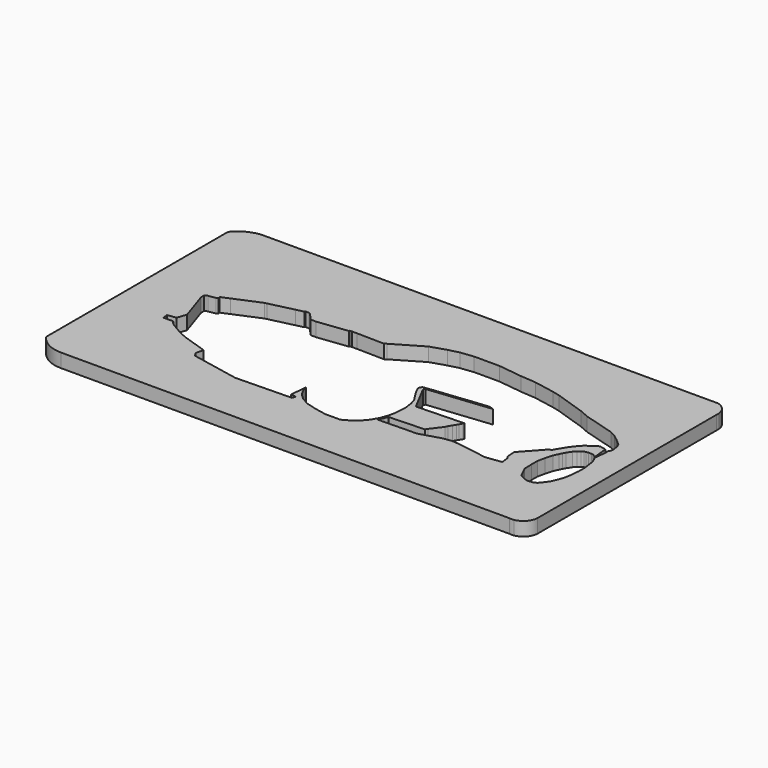
from build123d import *

# Parameters (mm, degrees)
F1_DEPTH = 4.2


with BuildPart() as f1:
    # F0 (on Top) → F1 (new body)
    with BuildSketch(Plane.XY):
        Polygon((44.977145, 13.610775), (45.516159, 13.644656), (45.344504, 16.375538), (51.013049, 22.670256), (51.555938, 22.70438), (53.552333, 26.023373), (54.561116, 27.47602), (56.310112, 29.418218), (57.680983, 30.326347), (59.450857, 31.498795), (61.434174, 31.054259), (61.88897, 26.504397), (62.159402, 26.260867), (62.557496, 29.507004), (62.557496, 30.694598), (61.881211, 32.501031), (61.395429, 33.288345), (60.581864, 33.852523), (58.823997, 34.246527), (57.448892, 34.04703), (55.717587, 32.900132), (52.769196, 30.140775), (49.275246, 26.260867), (47.123693, 23.241876), (49.906887, 22.618057), (44.700395, 16.763752), (44.700395, 14.028545), align=None)
        Polygon((42.325083, 23.241876), (47.123693, 23.241876), (49.275246, 26.260867), (52.769196, 30.140775), (55.717587, 32.900132), (57.448892, 34.04703), (58.823997, 34.246527), (60.581864, 33.852523), (61.395429, 33.288345), (61.881211, 32.501031), (62.557496, 30.694598), (62.758337, 30.917625), (62.883106, 31.474288), (63.057776, 32.253583), (62.883106, 32.900132), (62.744935, 33.852523), (62.404808, 34.817252), (60.482778, 36.548087), (57.704408, 36.883015), (56.06227, 36.644777), (53.853523, 35.631876), (49.632758, 33.214994), (47.778636, 32.603957), (44.925898, 31.935215), (43.073435, 31.666464), (39.447628, 31.666464), (35.794899, 32.261252), (35.019862, 32.148812), (35.431139, 31.778447), (34.337938, 31.054259), (36.339141, 29.928997), (37.889393, 28.532959), (39.874225, 26.74557), align=None)
        Polygon((38.198277, 18.227329), (43.884631, 21.994237), (42.325083, 23.241876), (39.874225, 26.74557), (37.889393, 28.532959), (36.339141, 29.928997), (34.337938, 31.054259), (28.266452, 32.2455), (21.881952, 32.981146), (14.915363, 33.783861), (8.835521, 34.216473), (10.486052, 32.839466), (12.534714, 33.194158), (12.813605, 32.915267), (12.903254, 32.825619), (12.903254, 31.096321), (13.104901, 30.737627), (14.299012, 30.944368), (14.494383, 31.040402), (14.865994, 31.079026), (15.057351, 30.696312), (15.325704, 30.540392), (15.325704, 30.171853), (15.707208, 29.890334), (20.77497, 30.462589), (26.125677, 31.018725), (27.562566, 30.589263), (27.923392, 30.027352), (26.834997, 20.581419), (26.603129, 20.195939), (34.235068, 21.159452), (34.577172, 21.209083), (37.154589, 22.86415), (36.107592, 23.959819), (36.027364, 24.080927), (34.284126, 26.172387), (33.313468, 27.637649), (32.147654, 29.028247), (31.772899, 29.661847), (32.311803, 30.018842), (33.279754, 30.199839), (35.943083, 29.677287), (38.050145, 28.075919), (39.535917, 26.322745), (41.945595, 22.935022), (36.9968, 18.717939), (28.431773, 17.575085), (28.109628, 17.528349), (27.354047, 17.418731), (24.830012, 16.946764), (24.306303, 16.211912), align=None)
        Polygon((62.159402, 26.260867), (61.88897, 26.504397), (60.83139, 27.137697), (60.247339, 27.221132), (59.389148, 27.233051), (58.697827, 27.137697), (58.185294, 26.982745), (57.493974, 26.649004), (56.790732, 25.981519), (56.063648, 25.25444), (55.169698, 23.859875), (54.752521, 23.085119), (54.347262, 22.250764), (53.654872, 20.791596), (53.035066, 18.503079), (52.534454, 16.293667), (52.534454, 14.007394), (52.61768, 11.241064), (54.266289, 7.92863), (55.744287, 7.165792), (57.126932, 6.784372), (58.81948, 6.975082), (59.677672, 7.499534), (60.964961, 9.120565), (61.560929, 10.026435), (62.347606, 11.814337), (62.895894, 13.387692), (63.232788, 15.17124), (63.301153, 15.533174), (63.563377, 18.346142), (63.563377, 20.443946), (63.086607, 24.115106), align=None)
        Polygon((55.83401, 10.960189), (54.41355, 12.557245), (54.198583, 14.599453), (54.127488, 15.274856), (54.699618, 18.898338), (55.55781, 21.234531), (56.129938, 22.188079), (56.702066, 23.141626), (57.60599, 24.196205), (58.132388, 24.810337), (58.470652, 24.911815), (59.562709, 25.239432), (61.136063, 24.858013), (62.184967, 23.141626), (62.85245, 21.139177), (62.85245, 18.183177), (62.666345, 16.787389), (62.471032, 15.322533), (61.422128, 12.175826), (61.221022, 11.791896), (60.373228, 10.173375), (58.609162, 8.361634), (57.991932, 8.155891), (57.17884, 7.884861), (55.89084, 8.584061), (56.689955, 10.056115), (56.179669, 13.285544), (55.762492, 13.916187), align=None, mode=Mode.SUBTRACT)
        Polygon((35.186818, 20.581419), (35.786986, 19.963511), (36.323965, 19.410661), (36.9968, 18.717939), (41.945595, 22.935022), (39.535917, 26.322745), (38.050145, 28.075919), (35.943083, 29.677287), (33.279754, 30.199839), (32.311803, 30.018842), (31.772899, 29.661847), (32.147654, 29.028247), (33.313468, 27.637649), (34.284126, 26.172387), (36.027364, 24.080927), (36.107592, 23.959819), (37.154589, 22.86415), (34.577172, 21.209083), align=None)
        Polygon((12.534714, 33.194158), (10.486052, 32.839466), (4.454993, 31.795287), (7.431868, 29.437896), (6.794012, 29.01266), (6.326251, 28.346453), (6.326251, 27.836168), (6.567219, 27.311711), (7.105852, 26.461236), (7.658978, 25.987316), (6.9219, 27.489822), (6.798545, 27.977122), (6.958682, 28.499672), (7.363238, 28.921086), (10.355268, 29.33407), (15.707208, 29.890334), (15.325704, 30.171853), (15.325704, 30.540392), (15.057351, 30.696312), (14.865994, 31.079026), (14.494383, 31.040402), (14.299012, 30.944368), (13.104901, 30.737627), (12.903254, 31.096321), (7.38122, 31.292453), (12.813605, 32.915267), align=None)
        Polygon((-9.931885, 38.161553), (5.28262, 35.433484), (11.767071, 35.433484), (18.814161, 34.673997), (26.444461, 34.266633), (41.41346, 32.331388), (44.280894, 32.331388), (46.710923, 32.909475), (53.853523, 35.631876), (56.06227, 36.644777), (57.704408, 36.883015), (60.482778, 36.548087), (58.664064, 37.956048), (56.846585, 38.889412), (49.476422, 40.797822), (44.198189, 41.874513), (47.435194, 41.624032), (44.567756, 42.884013), (35.366179, 45.934509), (33.025108, 46.508394), (26.837271, 47.666323), (22.017064, 48.039313), (14.82417, 48.938427), (7.072369, 48.938427), (3.062817, 48.452422), (0, 47.674809), (-4.673017, 46.194144), (-1.305311, 45.933548), (3.245104, 45.231942), (10.220604, 43.92546), (4.012142, 37.745345), (3.682273, 37.779178), (-3.124806, 37.970366), align=None)
        Polygon((40.085532, 41.279063), (39.751749, 41.143462), (38.50913, 40.189825), (37.353206, 39.496269), (36.226179, 38.889412), (34.23221, 38.109161), (32.845102, 37.704587), (31.400196, 37.473403), (24.609141, 37.473403), (21.199163, 37.473403), (18.020371, 37.473403), (14.783784, 37.473403), (12.154056, 37.473403), (8.88857, 37.415605), (6.316638, 37.415605), (6.923498, 38.484838), (11.980667, 43.570902), (12.632327, 44.385608), (19.235546, 44.689041), (28.435868, 44.554212), (34.349255, 44.09663), (38.145048, 43.586629), (39.247487, 43.316379), (40.938023, 42.57948), (42.209543, 41.842576), (41.458189, 41.842576), align=None, mode=Mode.SUBTRACT)
        Polygon((42.542173, 35.567098), (37.679449, 35.709467), (42.83659, 39.66727), (45.969738, 39.174924), (48.150736, 38.832201), (51.28214, 38.34013), (49.045165, 36.997942), (48.731925, 36.809998), (44.763177, 35.502073), align=None, mode=Mode.SUBTRACT)
        Polygon((7.534076, 48.185118), (16.475747, 47.941234), (11.519327, 46.702798), (4.569437, 47.480408), align=None, mode=Mode.SUBTRACT)
        Polygon((1.160444, 33.055801), (-1.02244, 33.821229), (-2.711725, 34.12413), (-5.778347, 34.673997), (-8.52002, 34.955192), (-11.114994, 34.997586), (-15.051646, 34.560181), (-21.709934, 33.588167), (-30.117841, 31.546939), (-36.655456, 30.187771), (-22.982877, 34.104329), (-15.351649, 35.514958), (-3.053562, 35.986401), (-2.464082, 34.955192), (0, 34.317177), (-3.015257, 36.293235), (-13.658796, 38.164359), (-20.171281, 37.411049), (-24.198058, 36.723815), (-28.75216, 35.433484), (-32.148391, 34.669336), (-36.117475, 35.791904), (-33.952523, 36.814243), (-32.037947, 37.394008), (-31.106008, 37.676215), (-29.201649, 38.217455), (-26.796144, 38.758691), (-24.423273, 39.25984), (-22.446189, 39.600618), (-22.446189, 39.9414), (-24.423273, 40.591948), (-33.669934, 39.486233), (-35.909519, 39.259437), (-41.531112, 38.079731), (-46.617176, 36.923807), (-49.502917, 35.885005), (-54.892544, 34.333486), (-57.796761, 32.977048), (-58.476165, 32.142695), (-54.327402, 28.764409), (-42.502067, 26.753125), (-39.289646, 27.146205), (-28.117094, 25.5126), (-20.957465, 26.095128), (-10.870717, 26.915815), (0.168223, 32.049406), (0.706857, 32.247849), (0.295794, 30.830393), (-0.129443, 30.830393), (-2.397375, 30.022442), (-4.084149, 29.427109), (-5.068837, 28.976489), (-6.756744, 27.85122), (-7.882531, 26.725434), (-9.983162, 23.953656), (-11.70057, 21.060836), (-14.226351, 16.12955), (-16.247297, 11.498441), (-16.247297, 11.037897), (-14.316479, 11.372187), (-9.723914, 21.94123), (-6.734794, 26.308704), (-5.827622, 27.187526), (-4.916987, 27.920763), (-3.651651, 28.580354), (-1.844566, 29.299539), (1.089571, 30.164188), (1.089571, 31.028837), (1.231316, 31.609993), (2.749433, 31.923271), (2.42198, 32.673087), (2.081278, 32.524298), (1.851219, 32.754357), (1.557332, 32.882605), align=None)
        Polygon((-13.645695, 30.426417), (-25.92719, 26.659414), (-33.062071, 27.802369), (-25.86158, 29.427109), (-22.717309, 28.980681), (-17.221577, 30.801756), align=None, mode=Mode.SUBTRACT)
        Polygon((4.817484, 27.981304), (5.031539, 29.641165), (2.749433, 31.923271), (2.592075, 31.609993), (1.387237, 31.170582), (1.231316, 31.028837), (1.231316, 30.164188), (3.031488, 30.773694), align=None)
        Polygon((7.105852, 26.461236), (4.817484, 27.981304), (3.031488, 30.773694), (1.231316, 30.164188), (1.231316, 31.028837), (1.387237, 31.170582), (2.592075, 31.609993), (2.749433, 31.923271), (1.231316, 31.609993), (1.089571, 31.028837), (1.089571, 30.164188), (-1.844566, 29.299539), (-3.517166, 28.534111), (-4.849575, 27.839556), (-5.643353, 27.187526), (-6.734794, 26.308704), (-9.723914, 21.94123), (-14.316479, 11.372187), (-13.639488, 9.338418), (-12.618875, 7.734597), (-10.990754, 6.300878), (-8.779425, 5.110163), (-5.579385, 4.233382), (-2.082713, 3.539827), (2.483188, 3.539827), (5.112916, 5.01363), (6.673414, 6.342943), (8.118319, 8.105729), (9.245345, 10.041902), (9.678817, 11.197826), (10.083391, 12.324852), (10.574658, 14.550007), (10.805843, 18.01778), (10.401269, 20.820895), (9.852205, 22.525884), (7.658978, 25.987316), align=None)
        Polygon((-5.479537, 11.851205), (-5.579385, 14.417184), (-5.004245, 17.316848), (-4.138065, 19.447349), (-2.777247, 21.585777), (-0.906123, 23.675604), (1.037902, 24.987821), (2.738924, 25.522428), (5.023154, 25.498128), (8.003553, 23.964137), (9.393068, 21.9616), (10.168338, 19.898338), (10.495721, 15.874604), (10.312073, 14.948714), (10.07656, 13.761333), (9.754067, 12.135433), (9.240509, 10.77526), (8.973205, 10.264953), (8.572251, 9.596694), (7.056702, 7.324063), (6.327692, 6.595054), (4.788216, 5.387898), (3.66119, 4.838834), (2.389674, 4.333117), (0.185332, 4.153765), (-1.395979, 4.737691), (-2.29182, 5.359), (-3.606685, 6.73166), (-4.434624, 8.084657), (-4.880779, 8.813752), (-5.236534, 10.174484), align=None, mode=Mode.SUBTRACT)
        Polygon((-45.817779, 39.352423), (-41.39533, 41.216151), (-48.7098, 39.478458), (-48.7098, 38.961116), (-52.391548, 37.270576), (-52.030321, 36.837105), (-55.974912, 34.713093), (-57.059678, 36.070045), (-59.53614, 35.024025), (-59.53614, 34.804892), (-59.435003, 34.678467), (-59.435003, 34.43405), (-59.904747, 34.136008), (-62.17134, 33.770427), (-62.636197, 33.603553), (-62.963977, 33.335369), (-62.963977, 32.20303), (-59.936277, 23.065884), (-59.122529, 20.610113), (-58.559431, 20.796702), (-59.53015, 24.39303), (-60.33599, 29.567977), (-60.608968, 30.882783), (-60.699562, 31.156181), (-58.940176, 31.156181), (-58.927423, 32.732869), (-59.378681, 33.323044), (-59.010439, 34.553569), (-57.796761, 32.977048), (-54.892544, 34.333486), (-49.501736, 37.631802), align=None)
        Polygon((-16.870601, 11.380275), (-16.247297, 11.498441), (-14.226351, 16.12955), (-11.70057, 21.060836), (-9.983162, 23.953656), (-7.882531, 26.725434), (-6.756744, 27.85122), (-5.068837, 28.976489), (-4.084149, 29.427109), (-2.397375, 30.022442), (-0.129443, 30.830393), (0.168223, 32.049406), (-10.870717, 26.915815), (-20.957465, 26.095128), (-28.117094, 25.5126), (-39.289646, 27.146205), (-39.289646, 25.652647), (-36.063768, 25.053903), (-31.714011, 24.276294), (-27.923163, 23.474382), (-30.134492, 22.648172), (-30.41383, 22.021815), (-30.353196, 20.534044), (-38.177896, 21.092953), (-40.633601, 25.597874), (-42.725973, 25.5126), (-53.912919, 27.531765), (-52.977398, 25.263833), (-44.019066, 23.506187), (-34.704403, 12.522618), (-32.058187, 11.73072), (-31.223832, 11.73072), (-32.630313, 9.990496), (-33.083249, 9.489883), (-34.084477, 8.846238), (-35.848539, 7.916529), (-36.396828, 7.630464), (-34.894992, 7.630464), (-36.825925, 7.272884), (-34.251347, 7.463593), (-32.857699, 7.303299), (-31.13692, 6.79344), (-30.428717, 6.927701), (-28.227487, 6.976573), (-26.399549, 9.573779), (-24.64627, 9.906165), (-20.930974, 18.040342), (-19.840661, 17.8885), (-13.542319, 20.136658), align=None)
        Polygon((-39.02841, 18.92383), (-38.074888, 18.92383), (-34.000255, 13.346496), (-31.103419, 13.141829), (-34.289848, 13.049548), align=None, mode=Mode.SUBTRACT)
        Polygon((-58.501907, 27.848613), (-60.608968, 30.882783), (-60.33599, 29.567977), (-59.53015, 24.39303), (-58.559431, 20.796702), (-58.06208, 20.961505), (-57.586024, 21.119252), (-56.776881, 20.777527), (-55.501509, 19.968189), (-53.166788, 18.648032), (-52.273467, 19.39763), (-55.653155, 21.426285), (-55.98558, 22.047396), (-56.934249, 23.819908), (-55.686925, 21.88204), (-56.497949, 25.788364), align=None)
        Polygon((-49.31678, 12.52273), (-45.413963, 11.244765), (-34.545517, 9.489883), (-33.2007, 10.701429), (-41.744225, 11.768488), (-44.724062, 12.292939), (-48.27603, 13.246487), (-50.659899, 14.057003), (-54.290291, 15.517553), (-45.890111, 15.256584), (-50.539371, 20.246034), (-50.936259, 20.246034), (-51.262395, 20.246034), (-55.376504, 15.956786), (-59.302859, 18.217629), (-60.075372, 19.13189), (-60.075372, 19.968189), (-60.33599, 18.59655), (-60.260747, 18.329561), (-59.948906, 17.649181), (-58.644551, 16.688168), (-55.310883, 14.768601), (-52.977286, 13.721352), align=None)
        Polygon((38.50913, 40.189825), (39.751749, 41.143462), (40.085532, 41.279063), (37.197702, 42.762104), (35.938654, 43.070745), (33.30747, 43.484211), (26.429722, 44.033274), (11.980667, 43.570902), (6.923498, 38.484838), (6.316638, 37.415605), (8.88857, 37.415605), (12.154056, 37.473403), (14.783784, 37.473403), (18.020371, 37.473403), (21.199163, 37.473403), (24.609141, 37.473403), (31.400196, 37.473403), (32.845102, 37.704587), (34.23221, 38.109161), (36.226179, 38.889412), (37.353206, 39.496269), align=None)
        Polygon((17.705588, 37.67439), (7.34632, 37.723955), (12.179042, 42.810839), (24.974167, 43.648068), (31.994621, 43.104821), (34.84815, 42.884013), (37.468798, 42.241592), (39.260871, 41.295774), (37.203599, 39.973706), (36.340832, 39.456045), (35.019889, 38.889412), (33.895999, 38.373023), (33.094089, 38.184695), (32.012727, 37.941694), (30.749109, 37.72299), (26.988635, 37.67439), align=None, mode=Mode.SUBTRACT)
        Polygon((48.150736, 38.832201), (44.763177, 35.502073), (48.731925, 36.809998), (49.045165, 36.997942), (51.28214, 38.34013), align=None)
        Polygon((-5.004245, 17.316848), (-5.579385, 14.417184), (-5.479537, 11.851205), (-5.236534, 10.174484), (-4.880779, 8.813752), (-4.434624, 8.084657), (-3.606685, 6.73166), (-2.29182, 5.359), (-1.395979, 4.737691), (0.185332, 4.153765), (2.389674, 4.333117), (3.66119, 4.838834), (4.788216, 5.387898), (6.327692, 6.595054), (7.056702, 7.324063), (8.572251, 9.596694), (8.973205, 10.264953), (9.240509, 10.77526), (9.754067, 12.135433), (10.07656, 13.761333), (10.312073, 14.948714), (10.495721, 15.874604), (10.168338, 19.898338), (9.393068, 21.9616), (8.003553, 23.964137), (5.023154, 25.498128), (2.738924, 25.522428), (1.037902, 24.987821), (-0.906123, 23.675604), (-2.777247, 21.585777), (-4.138065, 19.447349), align=None)
        Polygon((1.963022, 24.012635), (3.292877, 24.463071), (5.455605, 24.195766), (7.010825, 23.418156), (8.287649, 21.904208), (8.711847, 21.40123), (9.367956, 19.311402), (9.781062, 16.273864), (9.513758, 14.427039), (8.420244, 10.854892), (6.889324, 8.667864), (4.775196, 6.578037), (2.563867, 5.533123), (0.984347, 5.533123), (-0.32787, 5.751826), (-0.590914, 5.893465), (-1.591487, 6.432235), (-2.806502, 7.501449), (-3.827116, 9.226771), (-4.176329, 10.256032), (-4.288821, 10.587589), (-4.458924, 11.778304), (-4.458924, 13.097744), (-4.458924, 14.417184), (-4.3484, 15.083127), (-4.070119, 16.759869), (-2.952304, 19.748809), (-1.810189, 21.206828), (0.279638, 23.442456), (0.912209, 23.656715), align=None, mode=Mode.SUBTRACT)
        Polygon((5.455605, 24.195766), (3.292877, 24.463071), (1.963022, 24.012635), (1.745581, 22.10141), (2.346983, 19.75162), (2.948385, 19.811761), (1.581997, 17.814048), (1.9071, 17.553965), (2.311674, 16.947104), (2.376665, 16.472688), (5.199671, 17.463227), (7.002437, 20.366086), (8.287649, 21.904208), (7.010825, 23.418156), align=None)
        Polygon((8.711847, 21.40123), (8.287649, 21.904208), (7.002437, 20.366086), (5.199671, 17.463227), (2.376665, 16.472688), (2.441656, 15.998273), (2.285673, 15.05842), (3.326116, 15.05842), (5.343906, 15.998273), (7.858041, 17.341338), (8.522698, 14.574345), (7.605862, 11.579349), (7.088352, 11.963639), (6.641597, 11.173225), (6.64127, 11.12372), (5.028297, 9.425103), (3.086627, 7.380336), (3.086627, 6.675836), (0.755352, 6.181805), (1.212355, 7.384134), (0.346937, 7.816545), (-0.590914, 5.893465), (-0.32787, 5.751826), (0.984347, 5.533123), (2.563867, 5.533123), (4.775196, 6.578037), (6.889324, 8.667864), (8.420244, 10.854892), (9.513758, 14.427039), (9.781062, 16.273864), (9.367956, 19.311402), align=None)
        Polygon((1.256893, 18.074131), (0.577787, 18.103028), (-0.983375, 17.908946), (-1.250678, 17.228536), (-2.418461, 16.990468), (-2.858662, 14.700259), (-1.277834, 16.17799), (-1.415297, 15.593771), (-1.638675, 14.923637), (-1.518395, 14.253503), (-0.985724, 13.600552), (-0.31559, 13.136613), (0.182714, 13.067882), (1.140597, 13.487901), (1.233205, 13.528508), (1.433999, 13.739098), (1.937704, 14.267373), (2.26418, 14.928916), (2.285673, 15.05842), (2.441656, 15.998273), (2.376665, 16.472688), (2.311674, 16.947104), (1.9071, 17.553965), (1.581997, 17.814048), align=None)
        Polygon((-2.996125, 13.583369), (-4.458924, 13.097744), (-4.458924, 11.778304), (-4.288821, 10.587589), (-4.176329, 10.256032), (-4.136292, 10.251028), (-2.924897, 9.915961), (-0.931678, 8.455412), (0.346937, 7.816545), (0.348449, 7.819645), (-0.23577, 10.993022), (-0.96294, 12.57385), (0, 10.993022), (1.212355, 7.384134), (0.755352, 6.181805), (3.086627, 6.675836), (3.086627, 7.380336), (5.028297, 9.425103), (2.880432, 11.177761), (2.708603, 11.212126), (1.33397, 11.693249), (0.50919, 11.865078), (0.320178, 12.277467), (0.182714, 13.067882), (-0.31559, 13.136613), (-1.002907, 12.552394), (-0.985724, 13.600552), (-1.518395, 14.253503), (-1.638675, 14.923637), (-1.415297, 15.593771), align=None)
        Polygon((56.072395, 15.298831), (55.762492, 13.916187), (58.142357, 13.192025), (59.624283, 11.56462), (60.947407, 13.35706), (61.221022, 11.791896), (61.422128, 12.175826), (62.471032, 15.322533), (62.666345, 16.787389), (62.188573, 15.557823), (61.81922, 16.135772), (61.764203, 15.822725), (61.663974, 15.146176), (61.458502, 14.524754), (61.333663, 14.087819), (58.51844, 14.087819), (56.73988, 14.659127), (56.73988, 15.501461), (56.549169, 15.370348), align=None)
        Polygon((56.072395, 17.89725), (55.857848, 17.110573), (55.78633, 16.538443), (55.857848, 15.966315), (56.19159, 15.418025), (56.549169, 15.370348), (56.73988, 15.501461), (56.93059, 15.632574), (57.168975, 16.133185), (57.359684, 16.609959), (57.383522, 17.754218), (57.145137, 18.27867), (56.741161, 18.516302), (56.739878, 18.517056), (56.382298, 18.517056), align=None)
        Polygon((57.383522, 17.754218), (57.359684, 16.609959), (57.860316, 16.59953), (59.755787, 17.526168), (59.856925, 17.475598), (60.017064, 17.585166), (61.873089, 18.866094), (61.837565, 18.478559), (61.855469, 18.421087), (61.961778, 18.10216), (61.961778, 16.946932), (61.81922, 16.135772), (62.188573, 15.557823), (62.666345, 16.787389), (62.85245, 18.183177), (62.85245, 21.139177), (62.184967, 23.141626), (61.136063, 24.858013), (59.562709, 25.239432), (58.470652, 24.911815), (58.470652, 23.123231), (59.161177, 23.275144), (60.967247, 23.672474), (61.540417, 22.81081), (61.871279, 22.313414), (61.340299, 21.765579), (61.340299, 21.251455), (59.949636, 19.262388), (59.902487, 18.899191), align=None)
        with BuildLine():
            Line((67.49356, 66.406919), (-71.07649, 66.406919))
            ThreePointArc((-71.07649, 66.406919), (-75.492329, 65.390523), (-79.019472, 62.545886))
            Line((-79.019472, 62.545886), (-79.019472, -6.858289))
            ThreePointArc((-79.019472, -6.858289), (-75.639828, -9.900319), (-71.227756, -11.000114))
            Line((-71.227756, -11.000114), (65.880283, -11.000114))
            Line((65.880283, -11.000114), (67.12714, -11.000114))
            ThreePointArc((67.12714, -11.000114), (69.803005, -9.59626), (70.980528, -6.813366))
            Line((70.980528, -6.813366), (70.980528, 61.575286))
            Line((70.980528, 61.575286), (70.980528, 62.484642))
            ThreePointArc((70.980528, 62.484642), (69.870811, 65.00921), (67.49356, 66.406919))
        make_face()
        Polygon((45.516159, 13.644656), (46.022609, 12.974286), (46.331923, 10.597538), (41.360005, 9.950483), (37.934355, 10.597538), (35.726994, 10.957434), (33.375677, 11.293337), (30.832412, 11.581253), (29.848697, 11.581253), (28.649044, 11.389309), (27.449392, 11.197365), (23.970399, 10.165663), (21.113014, 9.318301), (18.739915, 9.318301), (17.878931, 9.298933), (9.478596, 9.109969), (10.150073, 10.65097), (10.659984, 11.821184), (10.894187, 11.821184), (21.380909, 12.229065), (21.762028, 12.849785), (24.306303, 16.211912), (24.648729, 16.946764), (25.215414, 17.888874), (25.746534, 18.771856), (26.10618, 19.369765), (26.603129, 20.195939), (26.834997, 20.581419), (12.322279, 20.101398), (8.118067, 28.062856), (8.518985, 28.58405), (27.562566, 30.589263), (26.125677, 31.018725), (20.77497, 30.462589), (15.707208, 29.890334), (10.355268, 29.33407), (7.363238, 28.921086), (6.958682, 28.499672), (6.798545, 27.977122), (6.9219, 27.489822), (7.658978, 25.987316), (9.852205, 22.525884), (10.401269, 20.820895), (10.805843, 18.01778), (10.574658, 14.550007), (10.083391, 12.324852), (9.678817, 11.197826), (9.245345, 10.041902), (8.118319, 8.105729), (6.673414, 6.342943), (5.112916, 5.01363), (2.483188, 3.539827), (-2.082713, 3.539827), (-5.579385, 4.233382), (-8.779425, 5.110163), (-10.990754, 6.300878), (-12.618875, 7.734597), (-13.639488, 9.338418), (-14.316479, 11.372187), (-14.820676, 6.38034), (-13.626477, 6.259721), (-13.194896, 6.071386), (-13.372368, 5.664699), (-13.603232, 5.135662), (-30.554216, 4.759309), (-45.211688, 7.671186), (-45.953371, 8.884856), (-45.413963, 11.244765), (-49.31678, 12.52273), (-52.977286, 13.721352), (-55.310883, 14.768601), (-58.644551, 16.688168), (-59.948906, 17.649181), (-60.260747, 18.329561), (-63.344151, 18.329561), (-63.559799, 19.898472), (-60.909609, 20.262742), (-59.936277, 23.065884), (-62.963977, 32.20303), (-62.963977, 33.335369), (-62.636197, 33.603553), (-62.17134, 33.770427), (-59.904747, 34.136008), (-59.435003, 34.43405), (-59.435003, 34.678467), (-59.53614, 34.804892), (-59.53614, 35.024025), (-57.059678, 36.070045), (-49.350709, 39.326198), (-48.7098, 39.478458), (-41.39533, 41.216151), (-39.088316, 41.764226), (-38.857829, 42.009305), (-37.837259, 42.009305), (-37.326973, 41.782513), (-35.370883, 39.486233), (-33.669934, 39.486233), (-24.423273, 40.591948), (-24.450636, 40.820773), (-23.775568, 40.901498), (-23.677836, 40.861055), (-22.288645, 40.861055), (-13.934583, 40.699184), (-13.272698, 41.142583), (-4.673017, 46.194144), (0, 47.674809), (3.062817, 48.452422), (7.072369, 48.938427), (14.82417, 48.938427), (22.017064, 48.039313), (26.837271, 47.666323), (33.025108, 46.508394), (35.366179, 45.934509), (44.567756, 42.884013), (47.435194, 41.624032), (56.846585, 38.889412), (58.664064, 37.956048), (60.482778, 36.548087), (62.404808, 34.817252), (62.744935, 33.852523), (62.883106, 32.900132), (63.057776, 32.253583), (62.883106, 31.474288), (62.758337, 30.917625), (62.557496, 30.694598), (62.557496, 29.507004), (62.159402, 26.260867), (63.086607, 24.115106), (63.563377, 20.443946), (63.563377, 18.346142), (63.301153, 15.533174), (63.232788, 15.17124), (62.895894, 13.387692), (62.347606, 11.814337), (61.560929, 10.026435), (60.964961, 9.120565), (59.677672, 7.499534), (58.81948, 6.975082), (57.126932, 6.784372), (55.744287, 7.165792), (54.266289, 7.92863), (52.61768, 11.241064), (52.534454, 14.007394), (52.534454, 16.293667), (53.035066, 18.503079), (53.654872, 20.791596), (54.347262, 22.250764), (54.752521, 23.085119), (55.169698, 23.859875), (56.063648, 25.25444), (56.790732, 25.981519), (57.493974, 26.649004), (58.185294, 26.982745), (58.697827, 27.137697), (59.389148, 27.233051), (60.247339, 27.221132), (60.83139, 27.137697), (61.88897, 26.504397), (61.434174, 31.054259), (59.450857, 31.498795), (57.680983, 30.326347), (56.310112, 29.418218), (54.561116, 27.47602), (53.552333, 26.023373), (51.555938, 22.70438), (51.013049, 22.670256), (45.344504, 16.375538), align=None, mode=Mode.SUBTRACT)
        with BuildLine():
            ThreePointArc((70.980528, 61.575286), (71.00364, 62.029964), (70.980528, 62.484642))
            Line((70.980528, 62.484642), (70.980528, 61.575286))
        make_face()
        with BuildLine():
            Line((67.12714, -11.000114), (65.880283, -11.000114))
            ThreePointArc((65.880283, -11.000114), (66.503711, -11.043664), (67.12714, -11.000114))
        make_face()
    extrude(amount=F1_DEPTH)


solid = f1.part
